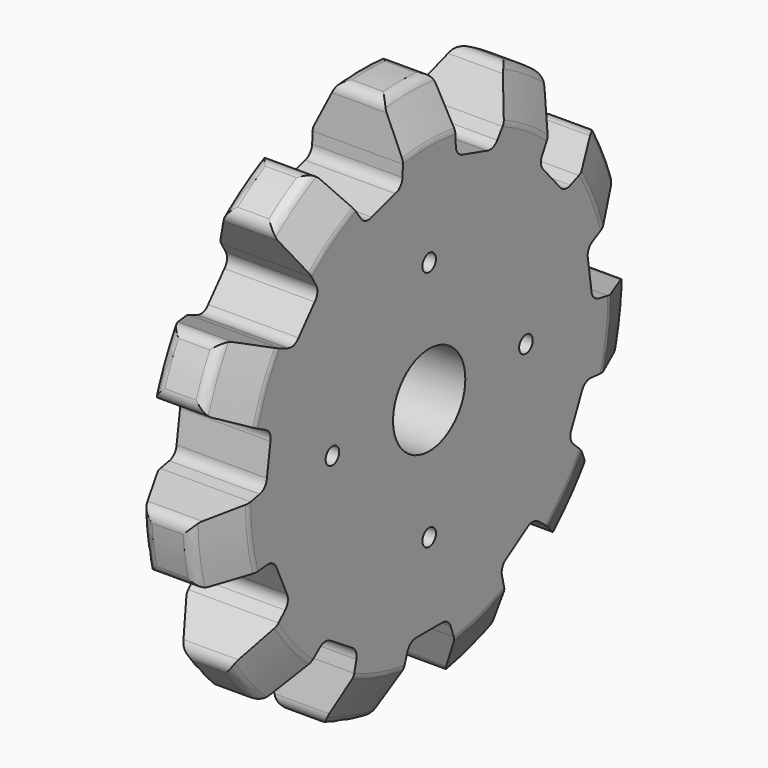
from build123d import *

# Parameters (mm, degrees)
F3_DEPTH = 50.8
F4_R     = 4.7625
F4_R_2   = 25.4
F5_DEPTH = 50.8
F6_R     = 101.6
F6_R_2   = 4.7625
F6_R_3   = 25.4
F7_DEPTH = 12.7


with BuildPart() as f1:
    # F0 (on Front) → F1 (revolve)
    with BuildSketch(Plane.XZ):
        with BuildLine():
            Line((0, 125.5009683429), (0, 0))
            Line((0, 0), (50.8, 0))
            Line((50.8, 0), (50.8, 125.5009683429))
            ThreePointArc((50.8, 125.5009683429), (50.6301310831, 126.9598993884), (50.1296126628, 128.3407746743))
            Line((50.1296126628, 128.3407746743), (39.8550968343, 148.8898063314))
            ThreePointArc((39.8550968343, 148.8898063314), (37.5138767334, 151.451632633), (34.1754841714, 152.4))
            Line((34.1754841714, 152.4), (16.6245158286, 152.4))
            ThreePointArc((16.6245158286, 152.4), (13.2861232666, 151.451632633), (10.9449031657, 148.8898063314))
            Line((10.9449031657, 148.8898063314), (0.6703873372, 128.3407746743))
            ThreePointArc((0.6703873372, 128.3407746743), (0.1698689169, 126.9598993884), (0, 125.5009683429))
        make_face()
    revolve(axis=Axis((25.4, 0, 0), (1, 0, 0)))

    # F2 (on face) → F3 (cut)
    with BuildSketch(Plane.YZ.offset(50.8)):
        with BuildLine():
            ThreePointArc((-139.970714685, 44.812810477), (-142.9764215545, 48.1545810635), (-143.0169211047, 52.6490292192))
            ThreePointArc((-143.0169211047, 52.6490292192), (-150.8487877959, 21.6887809822), (-152.0566764749, -10.2238514962))
            ThreePointArc((-152.0566764749, -10.2238514962), (-150.7515850916, -5.922870106), (-146.9261449095, -3.5632701715))
            Line((-146.9261449095, -3.5632701715), (-125.4996348716, 0.5785344356))
            ThreePointArc((-125.4996348716, 0.5785344356), (-124.2235494865, 17.8606497076), (-120.5790100073, 34.8022326966))
            Line((-120.5790100073, 34.8022326966), (-139.970714685, 44.812810477))
        make_face()
        with BuildLine():
            Line((-114.8567812668, 31.848247122), (-120.5790100073, 34.8022326966))
            ThreePointArc((-120.5790100073, 34.8022326966), (-124.2235494865, 17.8606497076), (-125.4996348716, 0.5785344356))
            Line((-125.4996348716, 0.5785344356), (-119.1769626989, 1.8007247357))
            ThreePointArc((-119.1769626989, 1.8007247357), (-115.6217888653, 3.8327308401), (-114.046224619, 7.6124010772))
            Line((-114.046224619, 7.6124010772), (-111.5712125303, 24.8264885659))
            ThreePointArc((-111.5712125303, 24.8264885659), (-112.0180992143, 28.8969433423), (-114.8567812668, 31.848247122))
        make_face()
        with BuildLine():
            Line((-79.4052106775, 88.8887144973), (-82.6220106469, 94.4674357208))
            ThreePointArc((-82.6220106469, 94.4674357208), (-94.8473036319, 82.1856559794), (-105.2642318943, 68.3369192948))
            Line((-105.2642318943, 68.3369192948), (-99.2844956285, 65.9467965523))
            ThreePointArc((-99.2844956285, 65.9467965523), (-95.1951076397, 65.73415678), (-91.8262146453, 68.0620033787))
            Line((-91.8262146453, 68.0620033787), (-80.4374636541, 81.2053227375))
            ThreePointArc((-80.4374636541, 81.2053227375), (-78.612754659, 84.8712123811), (-79.4052106775, 88.8887144973))
        make_face()
        with BuildLine():
            ThreePointArc((-93.5232237657, 113.37281671), (-94.2450877079, 117.8091008405), (-91.8492759738, 121.6119669403))
            ThreePointArc((-91.8492759738, 121.6119669403), (-115.1762354056, 99.800775537), (-133.4456477268, 73.6071946401))
            ThreePointArc((-133.4456477268, 73.6071946401), (-130.0224488961, 76.5198247579), (-125.5285877908, 76.436657433))
            Line((-125.5285877908, 76.436657433), (-105.2642318943, 68.3369192948))
            ThreePointArc((-105.2642318943, 68.3369192948), (-94.8473036319, 82.1856559794), (-82.6220106469, 94.4674357208))
            Line((-82.6220106469, 94.4674357208), (-93.5232237657, 113.37281671))
        make_face()
        with BuildLine():
            Line((-18.743046399, 117.7076431648), (-18.4331063164, 124.1398954669))
            ThreePointArc((-18.4331063164, 124.1398954669), (-35.3577088714, 120.4172972557), (-51.608179085, 114.3988151448))
            Line((-51.608179085, 114.3988151448), (-47.8699027377, 109.155226442))
            ThreePointArc((-47.8699027377, 109.155226442), (-44.5446523848, 106.7654524181), (-40.4520303634, 106.9024005319))
            Line((-40.4520303634, 106.9024005319), (-23.7653880813, 111.8020408103))
            ThreePointArc((-23.7653880813, 111.8020408103), (-20.2484156131, 113.8994712511), (-18.743046399, 117.7076431648))
        make_face()
        with BuildLine():
            ThreePointArc((-17.3827696695, 145.9377547823), (-15.5916039704, 150.0600635864), (-11.5201342427, 151.9639645016))
            ThreePointArc((-11.5201342427, 151.9639645016), (-42.936041874, 146.2267291168), (-72.466568749, 134.0684765847))
            ThreePointArc((-72.466568749, 134.0684765847), (-68.0121039114, 134.6680159484), (-64.2765910304, 132.168486402))
            Line((-64.2765910304, 132.168486402), (-51.608179085, 114.3988151448))
            ThreePointArc((-51.608179085, 114.3988151448), (-35.3577088714, 120.4172972557), (-18.4331063164, 124.1398954669))
            Line((-18.4331063164, 124.1398954669), (-17.3827696695, 145.9377547823))
        make_face()
        with BuildLine():
            ThreePointArc((72.4665683228, 134.0684768151), (42.9360416415, 146.2267291851), (11.5201342427, 151.9639645016))
            ThreePointArc((11.5201342427, 151.9639645016), (15.5916039704, 150.0600635864), (17.3827696695, 145.9377547823))
            Line((17.3827696695, 145.9377547823), (18.4331063164, 124.1398954669))
            ThreePointArc((18.4331063164, 124.1398954669), (35.3577086799, 120.4172973119), (51.6081787213, 114.3988153089))
            Line((51.6081787213, 114.3988153089), (64.2765906101, 132.1684866064))
            ThreePointArc((64.2765906101, 132.1684866064), (68.0121034833, 134.6680161646), (72.4665683228, 134.0684768151))
        make_face()
        with BuildLine():
            ThreePointArc((51.6081787213, 114.3988153089), (35.3577086799, 120.4172973119), (18.4331063164, 124.1398954669))
            Line((18.4331063164, 124.1398954669), (18.743046399, 117.7076431648))
            ThreePointArc((18.743046399, 117.7076431648), (20.2484156131, 113.8994712511), (23.7653880813, 111.8020408103))
            Line((23.7653880813, 111.8020408103), (40.4520300235, 106.9024006605))
            ThreePointArc((40.4520300235, 106.9024006605), (44.5446520453, 106.7654525597), (47.8699023907, 109.1552265942))
            Line((47.8699023907, 109.1552265942), (51.6081787213, 114.3988153089))
        make_face()
        with BuildLine():
            ThreePointArc((133.4456474927, 73.6071950644), (115.1762350883, 99.8007759032), (91.8492755872, 121.6119672323))
            ThreePointArc((91.8492755872, 121.6119672323), (94.2450873334, 117.8091011402), (93.5232234052, 113.3728170074))
            Line((93.5232234052, 113.3728170074), (82.6220103465, 94.4674359835))
            ThreePointArc((82.6220103465, 94.4674359835), (94.8473033705, 82.185656281), (105.264231677, 68.3369196295))
            Line((105.264231677, 68.3369196295), (125.5285875477, 76.4366578321))
            ThreePointArc((125.5285875477, 76.4366578321), (130.0224486528, 76.5198251714), (133.4456474927, 73.6071950644))
        make_face()
        with BuildLine():
            ThreePointArc((105.264231677, 68.3369196295), (94.8473033705, 82.185656281), (82.6220103465, 94.4674359835))
            Line((82.6220103465, 94.4674359835), (79.4052103948, 88.8887147498))
            ThreePointArc((79.4052103948, 88.8887147498), (78.6127543892, 84.871212631), (80.4374633959, 81.2053229932))
            Line((80.4374633959, 81.2053229932), (91.8262144289, 68.0620036707))
            ThreePointArc((91.8262144289, 68.0620036707), (95.1951074307, 65.7341570826), (99.2844954188, 65.946796868))
            Line((99.2844954188, 65.946796868), (105.264231677, 68.3369196295))
        make_face()
        with BuildLine():
            ThreePointArc((152.4, 0), (150.0358936236, 26.7393086032), (143.0169209373, 52.6490296739))
            ThreePointArc((143.0169209373, 52.6490296739), (142.9764214014, 48.1545815181), (139.9707145425, 44.8128109221))
            Line((139.9707145425, 44.8128109221), (120.5790098966, 34.8022330799))
            ThreePointArc((120.5790098966, 34.8022330799), (124.2235494297, 17.8606501026), (125.4996348698, 0.5785348347))
            Line((125.4996348698, 0.5785348347), (146.9261449208, -3.5632697043))
            ThreePointArc((146.9261449208, -3.5632697043), (150.7515851105, -5.9228696266), (152.0566765074, -10.2238510127))
            ThreePointArc((152.0566765074, -10.2238510127), (152.3141449435, -5.1148069502), (152.4, 0))
        make_face()
        with BuildLine():
            ThreePointArc((125.4996348698, 0.5785348347), (124.2235494297, 17.8606501026), (120.5790098966, 34.8022330799))
            Line((120.5790098966, 34.8022330799), (114.8567811656, 31.8482474872))
            ThreePointArc((114.8567811656, 31.8482474872), (112.0180991224, 28.8969436985), (111.5712124514, 24.8264889206))
            Line((111.5712124514, 24.8264889206), (114.0462245948, 7.6124014398))
            ThreePointArc((114.0462245948, 7.6124014398), (115.6217888531, 3.8327312078), (119.1769626932, 1.8007251147))
            Line((119.1769626932, 1.8007251147), (125.4996348698, 0.5785348347))
        make_face()
        with BuildLine():
            ThreePointArc((122.3907851596, -90.8088966348), (138.6279161561, -63.3092478412), (148.7777044439, -33.0296027892))
            ThreePointArc((148.7777044439, -33.0296027892), (146.3137519423, -36.7886774769), (141.9784928422, -37.9749459848))
            Line((141.9784928422, -37.9749459848), (120.2530258128, -35.9124329148))
            ThreePointArc((120.2530258128, -35.9124329148), (114.1596963054, -52.1349862804), (105.8897907686, -67.3635306822))
            Line((105.8897907686, -67.3635306822), (121.675689458, -82.4318842876))
            ThreePointArc((121.675689458, -82.4318842876), (123.6181585024, -86.485095169), (122.3907851596, -90.8088966348))
        make_face()
        with BuildLine():
            ThreePointArc((105.8897907686, -67.3635306822), (114.1596963054, -52.1349862804), (120.2530258128, -35.9124329148))
            Line((120.2530258128, -35.9124329148), (113.8421354914, -35.3038133137))
            ThreePointArc((113.8421354914, -35.3038133137), (109.8584889014, -36.2519006732), (107.281889913, -39.434579961))
            Line((107.281889913, -39.434579961), (100.0573642996, -55.2540844591))
            ThreePointArc((100.0573642996, -55.2540844591), (99.3393692954, -59.2855597436), (101.231586414, -62.9170641387))
            Line((101.231586414, -62.9170641387), (105.8897907686, -67.3635306822))
        make_face()
        with BuildLine():
            ThreePointArc((53.8666843338, -142.5627592286), (82.393660747, -128.2070382963), (107.302618049, -108.2215697531))
            ThreePointArc((107.302618049, -108.2215697531), (103.1975000908, -110.0517913209), (98.9091028809, -108.7059258715))
            Line((98.9091028809, -108.7059258715), (81.7475557383, -95.2251552155))
            ThreePointArc((81.7475557383, -95.2251552155), (67.8509462537, -105.5781329039), (52.660686313, -113.9181511965))
            Line((52.660686313, -113.9181511965), (57.7940623496, -135.1289580712))
            ThreePointArc((57.7940623496, -135.1289580712), (57.2368400527, -139.5889140967), (53.8666843338, -142.5627592286))
        make_face()
        with BuildLine():
            ThreePointArc((52.660686313, -113.9181511965), (67.8509462537, -105.5781329039), (81.7475557383, -95.2251552155))
            Line((81.7475557383, -95.2251552155), (76.6834162043, -91.2471628433))
            ThreePointArc((76.6834162043, -91.2471628433), (72.8195847114, -89.8910227362), (68.9313253783, -91.1754483487))
            Line((68.9313253783, -91.1754483487), (54.3009978421, -100.5777889663))
            ThreePointArc((54.3009978421, -100.5777889663), (51.5174019158, -103.5811043867), (51.1458967481, -107.6591300984))
            Line((51.1458967481, -107.6591300984), (52.660686313, -113.9181511965))
        make_face()
        with BuildLine():
            ThreePointArc((-31.7597081473, -149.0539531123), (2.423e-07, -152.4), (31.7597086212, -149.0539530113))
            ThreePointArc((31.7597086212, -149.0539530113), (27.3167711514, -148.3742390437), (24.4367716442, -144.9235424073))
            Line((24.4367716442, -144.9235424073), (17.2878143431, -124.3045635938))
            ThreePointArc((17.2878143431, -124.3045635938), (1.995e-07, -125.5009683429), (-17.2878139478, -124.3045636487))
            Line((-17.2878139478, -124.3045636487), (-24.4367711834, -144.923542485))
            ThreePointArc((-24.4367711834, -144.923542485), (-27.3167706797, -148.3742391305), (-31.7597081473, -149.0539531123))
        make_face()
        with BuildLine():
            Line((-15.1782537396, -118.2201829686), (-17.2878139478, -124.3045636487))
            ThreePointArc((-17.2878139478, -124.3045636487), (1.995e-07, -125.5009683429), (17.2878143431, -124.3045635938))
            Line((17.2878143431, -124.3045635938), (15.1782541155, -118.2201829204))
            ThreePointArc((15.1782541155, -118.2201829204), (12.660976917, -114.9903802482), (8.6955521031, -113.9687561291))
            Line((8.6955521031, -113.9687561291), (-8.6955517407, -113.9687561568))
            ThreePointArc((-8.6955517407, -113.9687561568), (-12.6609765514, -114.9903802884), (-15.1782537396, -118.2201829686))
        make_face()
        with BuildLine():
            ThreePointArc((-98.9091025352, -108.705926186), (-103.1974997409, -110.051791649), (-107.3026177049, -108.2215700943))
            ThreePointArc((-107.3026177049, -108.2215700943), (-82.3936603394, -128.2070385583), (-53.8666838805, -142.5627593999))
            ThreePointArc((-53.8666838805, -142.5627593999), (-57.2368396089, -139.5889142787), (-57.79406192, -135.128958255))
            Line((-57.79406192, -135.128958255), (-52.6606859508, -113.918151364))
            ThreePointArc((-52.6606859508, -113.918151364), (-67.850945918, -105.5781331197), (-81.7475554355, -95.2251554754))
            Line((-81.7475554355, -95.2251554754), (-98.9091025352, -108.705926186))
        make_face()
        with BuildLine():
            Line((-76.6834159142, -91.2471630871), (-81.7475554355, -95.2251554754))
            ThreePointArc((-81.7475554355, -95.2251554754), (-67.850945918, -105.5781331197), (-52.6606859508, -113.918151364))
            Line((-52.6606859508, -113.918151364), (-51.1458964058, -107.6591302611))
            ThreePointArc((-51.1458964058, -107.6591302611), (-51.5174015864, -103.5811045505), (-54.3009975223, -100.5777891389))
            Line((-54.3009975223, -100.5777891389), (-68.9313250884, -91.1754485679))
            ThreePointArc((-68.9313250884, -91.1754485679), (-72.8195844256, -89.8910229678), (-76.6834159142, -91.2471630871))
        make_face()
        with BuildLine():
            ThreePointArc((-141.9784927214, -37.9749464362), (-146.3137518253, -36.7886779421), (-148.7777043388, -33.0296032623))
            ThreePointArc((-148.7777043388, -33.0296032623), (-138.6279159548, -63.309248282), (-122.3907848708, -90.8088970239))
            ThreePointArc((-122.3907848708, -90.8088970239), (-123.6181582275, -86.4850955621), (-121.6756891959, -82.4318846745))
            Line((-121.6756891959, -82.4318846745), (-105.8897905544, -67.3635310189))
            ThreePointArc((-105.8897905544, -67.3635310189), (-114.1596961396, -52.1349866434), (-120.2530256986, -35.9124332972))
            Line((-120.2530256986, -35.9124332972), (-141.9784927214, -37.9749464362))
        make_face()
        with BuildLine():
            Line((-113.8421353791, -35.3038136756), (-120.2530256986, -35.9124332972))
            ThreePointArc((-120.2530256986, -35.9124332972), (-114.1596961396, -52.1349866434), (-105.8897905544, -67.3635310189))
            Line((-105.8897905544, -67.3635310189), (-101.2315862139, -62.9170644606))
            ThreePointArc((-101.2315862139, -62.9170644606), (-99.3393691069, -59.2855600595), (-100.0573641239, -55.2540847773))
            Line((-100.0573641239, -55.2540847773), (-107.2818897876, -39.4345803021))
            ThreePointArc((-107.2818897876, -39.4345803021), (-109.8584887861, -36.2519010226), (-113.8421353791, -35.3038136756))
        make_face()
    extrude(amount=-F3_DEPTH, mode=Mode.SUBTRACT)

    # F4 (on face) → F5 (cut)
    with BuildSketch(Plane.YZ.offset(50.8)):
        with Locations((0, 67.9958)):
            Circle(F4_R)
        with Locations((-67.9958, 0)):
            Circle(F4_R)
        Circle(F4_R_2)
        with Locations((0, -67.9958)):
            Circle(F4_R)
        with Locations((67.9958, 0)):
            Circle(F4_R)
    extrude(amount=-F5_DEPTH, mode=Mode.SUBTRACT)

    # F6 (on face) → F7 (cut)
    with BuildSketch(Plane(origin=(0, 0, 0), x_dir=(0, -1, 0), z_dir=(-1, 0, 0))):
        Circle(F6_R)
        with Locations((0, -67.9958)):
            Circle(F6_R_2, mode=Mode.SUBTRACT)
        with Locations((-67.9958, 0)):
            Circle(F6_R_2, mode=Mode.SUBTRACT)
        Circle(F6_R_3, mode=Mode.SUBTRACT)
        with Locations((67.9958, 0)):
            Circle(F6_R_2, mode=Mode.SUBTRACT)
        with Locations((0, 67.9958)):
            Circle(F6_R_2, mode=Mode.SUBTRACT)
    extrude(amount=-F7_DEPTH, mode=Mode.SUBTRACT)


solid = f1.part
